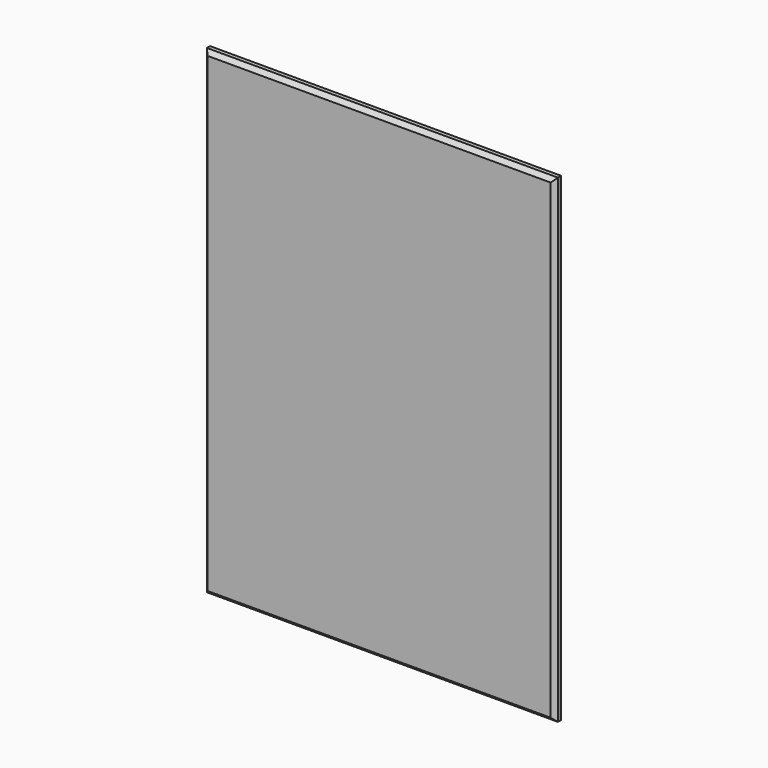
from build123d import *

# Parameters (mm, degrees)
SKETCH_W     = 348
SKETCH_H     = 475
PAD_DEPTH    = 8
CHAMFER_SIZE = 4


with BuildPart() as part:
    # Sketch → Pad (new body)
    with BuildSketch(Plane.XZ):
        with Locations((-36.713229, -51.613825)):
            Rectangle(SKETCH_W, SKETCH_H)
    extrude(amount=PAD_DEPTH)

    # Chamfer
    chamfer_edges = [part.edges().sort_by_distance(p)[0] for p in [
        (-36.713229, -8, -289.113825),
        (137.286771, -8, -51.613825),
        (-36.713229, -8, 185.886175),
        (-210.713229, -8, -51.613825),
    ]]
    chamfer(chamfer_edges, length=CHAMFER_SIZE)


solid = part.part
